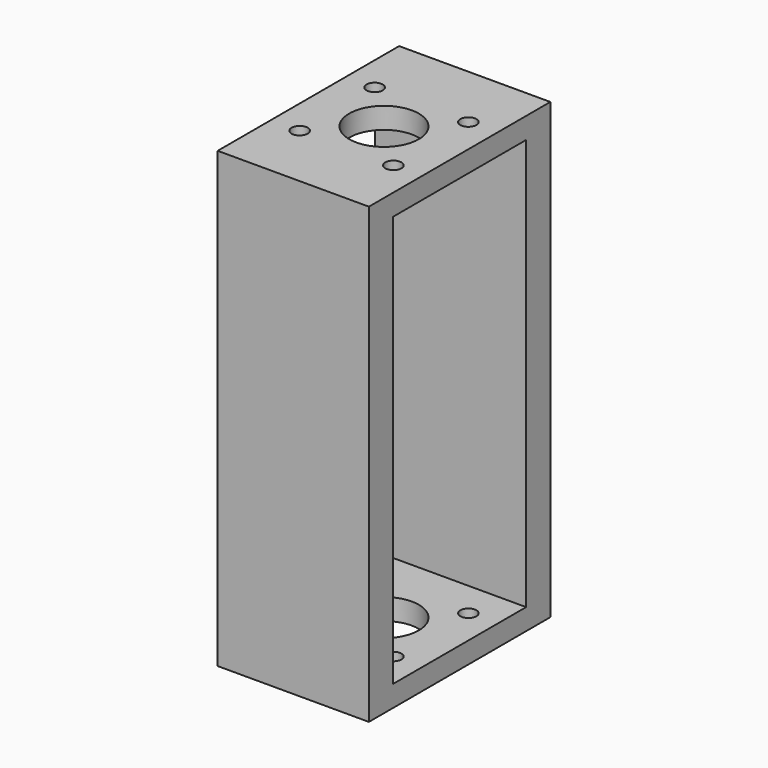
from build123d import *

# Parameters (mm, degrees)
F0_W          = 50
F0_H          = 75
F0_R          = 2.6717182094
F0_R_2        = 11.5
F1_DEPTH      = 150
F2_W          = 55
F2_H          = 136
F3_DEPTH      = 50
F3_DEPTH_BACK = 50


with BuildPart() as f1:
    # F0 (on Top) → F1 (new body)
    with BuildSketch(Plane.XY):
        Rectangle(F0_W, F0_H)
        with Locations((-15.5, -15.5)):
            Circle(F0_R, mode=Mode.SUBTRACT)
        with Locations((15.5, -15.5)):
            Circle(F0_R, mode=Mode.SUBTRACT)
        with Locations((-15.5, 15.5)):
            Circle(F0_R, mode=Mode.SUBTRACT)
        Circle(F0_R_2, mode=Mode.SUBTRACT)
        with Locations((15.5, 15.5)):
            Circle(F0_R, mode=Mode.SUBTRACT)
    extrude(amount=F1_DEPTH)

    # F2 (on Right) → F3 (cut, two sides)
    with BuildSketch(Plane.YZ) as f3_sk:
        with Locations((0, 75)):
            Rectangle(F2_W, F2_H)
    extrude(amount=-F3_DEPTH, mode=Mode.SUBTRACT)
    extrude(f3_sk.sketch, amount=F3_DEPTH_BACK, mode=Mode.SUBTRACT)


solid = f1.part
